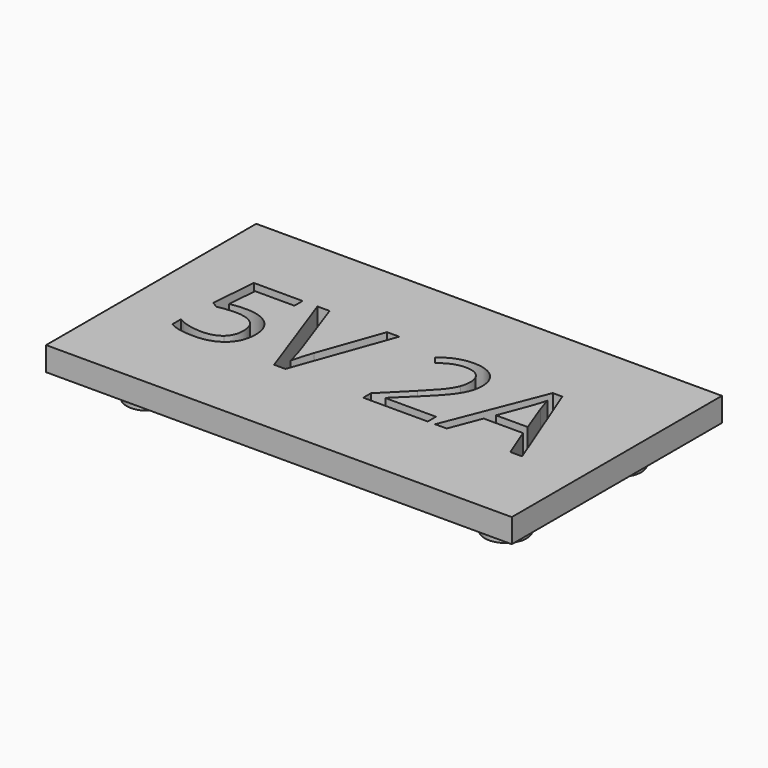
from build123d import *

# Parameters (mm, degrees)
F0_W     = 68
F0_H     = 34
F1_DEPTH = 2
F2_R     = 3.5
F3_DEPTH = 3
F4_D     = 2.4
F4_DEPTH = 3.001
F5_R     = 5
F6_W     = 78
F6_H     = 44
F7_DEPTH = 4


with BuildPart() as f1:
    # F0 (on Top) → F1 (new body)
    with BuildSketch(Plane.XY):
        Rectangle(F0_W, F0_H)
    extrude(amount=F1_DEPTH)

    # F2 (on face) → F3 (join)
    with BuildSketch(Plane.XY):
        with Locations((30, -12)):
            Circle(F2_R)
        with Locations((-30, -12)):
            Circle(F2_R)
        with Locations((30, 12)):
            Circle(F2_R)
        with Locations((-30, 12)):
            Circle(F2_R)
    extrude(amount=-F3_DEPTH)

    # F4 (through all, one way)
    with BuildSketch(Plane.XY):
        with Locations((-30, 12), (-30, -12), (30, 12), (30, -12)):
            Circle(F4_D / 2)
    extrude(amount=-F4_DEPTH, mode=Mode.SUBTRACT)

    # F5
    f5_edges = [f1.edges().sort_by_distance(p)[0] for p in [
        (-34, 17, 1),
        (34, 17, 1),
        (34, -17, 1),
        (-34, -17, 1),
    ]]
    fillet(f5_edges, radius=F5_R)

    # F6 (on face) → F7 (join)
    with BuildSketch(Plane.XY.offset(2)):
        Rectangle(F6_W, F6_H)
        with BuildLine():
            add(Edge.make_bspline(
                [(-27.6022215205, 2.0609542791), (-26.3102811263, 2.3200621019), (-25.0255381717, 2.3200621019)],
                knots=[0, 0, 0, 1, 1, 1], degree=2))
            add(Edge.make_bspline(
                [(-25.0255381717, 2.3200621019), (-22.4272625043, 2.3200621019), (-20.9373925233, 1.0317204275)],
                knots=[0, 0, 0, 1, 1, 1], degree=2))
            add(Edge.make_bspline(
                [(-20.9373925233, 1.0317204275), (-19.4475225423, -0.2566212469), (-19.4475225423, -2.4950249382)],
                knots=[0, 0, 0, 1, 1, 1], degree=2))
            add(Edge.make_bspline(
                [(-19.4475225423, -2.4950249382), (-19.4475225423, -5.0465172487), (-21.0723445143, -6.4986006722)],
                knots=[0, 0, 0, 1, 1, 1], degree=2))
            add(Edge.make_bspline(
                [(-21.0723445143, -6.4986006722), (-22.6971664864, -7.9506840957), (-25.5545499765, -7.9506840957)],
                knots=[0, 0, 0, 1, 1, 1], degree=2))
            add(Edge.make_bspline(
                [(-25.5545499765, -7.9506840957), (-28.3327616319, -7.9506840957), (-29.7938418549, -7.0618003148)],
                knots=[0, 0, 0, 1, 1, 1], degree=2))
            Line((-29.7938418549, -7.0618003148), (-29.7938418549, -5.2624404343))
            add(Edge.make_bspline(
                [(-29.7938418549, -5.2624404343), (-29.009320947, -5.7662612008), (-27.8397370247, -6.0541587817)],
                knots=[0, 0, 0, 1, 1, 1], degree=2))
            add(Edge.make_bspline(
                [(-27.8397370247, -6.0541587817), (-26.6701531024, -6.3420563626), (-25.532957658, -6.3420563626)],
                knots=[0, 0, 0, 1, 1, 1], degree=2))
            add(Edge.make_bspline(
                [(-25.532957658, -6.3420563626), (-23.5536617895, -6.3420563626), (-22.4578516223, -5.4081885846)],
                knots=[0, 0, 0, 1, 1, 1], degree=2))
            add(Edge.make_bspline(
                [(-22.4578516223, -5.4081885846), (-21.3620414551, -4.4743208067), (-21.3620414551, -2.7073494041)],
                knots=[0, 0, 0, 1, 1, 1], degree=2))
            add(Edge.make_bspline(
                [(-21.3620414551, -2.7073494041), (-21.3620414551, 0.7330266874), (-25.5761422951, 0.7330266874)],
                knots=[0, 0, 0, 1, 1, 1], degree=2))
            add(Edge.make_bspline(
                [(-25.5761422951, 0.7330266874), (-26.6449620641, 0.7330266874), (-28.4335257853, 0.4055431891)],
                knots=[0, 0, 0, 1, 1, 1], degree=2))
            Line((-28.4335257853, 0.4055431891), (-29.4015814009, 1.024522988))
            Line((-29.4015814009, 1.024522988), (-28.7826016021, 8.7185858368))
            Line((-28.7826016021, 8.7185858368), (-20.6063103053, 8.7185858368))
            Line((-20.6063103053, 8.7185858368), (-20.6063103053, 6.9983977911))
            Line((-20.6063103053, 6.9983977911), (-27.1847700282, 6.9983977911))
            Line((-27.1847700282, 6.9983977911), (-27.6022215205, 2.0609542791))
        make_face(mode=Mode.SUBTRACT)
        with BuildLine():
            Line((-10.2276025148, -1.8544528207), (-6.4705390845, 8.7185858368))
            Line((-6.4705390845, 8.7185858368), (-4.415670101, 8.7185858368))
            Line((-4.415670101, 8.7185858368), (-10.3391628274, -7.7239647508))
            Line((-10.3391628274, -7.7239647508), (-12.2284907019, -7.7239647508))
            Line((-12.2284907019, -7.7239647508), (-18.1231936703, 8.7185858368))
            Line((-18.1231936703, 8.7185858368), (-16.0971144449, 8.7185858368))
            Line((-16.0971144449, 8.7185858368), (-12.3184586959, -1.9192297764))
            add(Edge.make_bspline(
                [(-12.3184586959, -1.9192297764), (-11.6670904192, -3.7545768545), (-11.2856261245, -5.4855610595)],
                knots=[0, 0, 0, 1, 1, 1], degree=2))
            add(Edge.make_bspline(
                [(-11.2856261245, -5.4855610595), (-10.8789707916, -3.6646088605), (-10.2276025148, -1.8544528207)],
                knots=[0, 0, 0, 1, 1, 1], degree=2))
        make_face(mode=Mode.SUBTRACT)
        with BuildLine():
            Line((13.5023555886, -5.9929805458), (13.5023555886, -7.7239647508))
            Line((13.5023555886, -7.7239647508), (2.6954001466, -7.7239647508))
            Line((2.6954001466, -7.7239647508), (2.6954001466, -6.1153370176))
            Line((2.6954001466, -6.1153370176), (7.0246600189, -1.7644848267))
            add(Edge.make_bspline(
                [(7.0246600189, -1.7644848267), (9.0039558874, 0.2400020801), (9.6337318456, 1.0946980233)],
                knots=[0, 0, 0, 1, 1, 1], degree=2))
            add(Edge.make_bspline(
                [(9.6337318456, 1.0946980233), (10.2635078038, 1.9493939665), (10.5783957828, 2.7591059127)],
                knots=[0, 0, 0, 1, 1, 1], degree=2))
            add(Edge.make_bspline(
                [(10.5783957828, 2.7591059127), (10.8932837619, 3.568817859), (10.8932837619, 4.500886277)],
                knots=[0, 0, 0, 1, 1, 1], degree=2))
            add(Edge.make_bspline(
                [(10.8932837619, 4.500886277), (10.8932837619, 5.8180177095), (10.094367975, 6.5881437384)],
                knots=[0, 0, 0, 1, 1, 1], degree=2))
            add(Edge.make_bspline(
                [(10.094367975, 6.5881437384), (9.2954521881, 7.3582697672), (7.8775566023, 7.3582697672)],
                knots=[0, 0, 0, 1, 1, 1], degree=2))
            add(Edge.make_bspline(
                [(7.8775566023, 7.3582697672), (6.8555201902, 7.3582697672), (5.9378466511, 7.0199901097)],
                knots=[0, 0, 0, 1, 1, 1], degree=2))
            add(Edge.make_bspline(
                [(5.9378466511, 7.0199901097), (5.0201731121, 6.6817104521), (3.8973725467, 5.7928266712)],
                knots=[0, 0, 0, 1, 1, 1], degree=2))
            Line((3.8973725467, 5.7928266712), (2.9077246125, 7.0631747468))
            add(Edge.make_bspline(
                [(2.9077246125, 7.0631747468), (5.1785167816, 8.9525026213), (7.8559642837, 8.9525026213)],
                knots=[0, 0, 0, 1, 1, 1], degree=2))
            add(Edge.make_bspline(
                [(7.8559642837, 8.9525026213), (10.1735398097, 8.9525026213), (11.4888718823, 7.76672446)],
                knots=[0, 0, 0, 1, 1, 1], degree=2))
            add(Edge.make_bspline(
                [(11.4888718823, 7.76672446), (12.804203955, 6.5809462988), (12.804203955, 4.5800581118)],
                knots=[0, 0, 0, 1, 1, 1], degree=2))
            add(Edge.make_bspline(
                [(12.804203955, 4.5800581118), (12.804203955, 3.0146150158), (11.9261163333, 1.4851591174)],
                knots=[0, 0, 0, 1, 1, 1], degree=2))
            add(Edge.make_bspline(
                [(11.9261163333, 1.4851591174), (11.0480287116, -0.044296781), (8.6440839113, -2.3834646256)],
                knots=[0, 0, 0, 1, 1, 1], degree=2))
            Line((8.6440839113, -2.3834646256), (5.0453641504, -5.9030125517))
            Line((5.0453641504, -5.9030125517), (5.0453641504, -5.9929805458))
            Line((5.0453641504, -5.9929805458), (13.5023555886, -5.9929805458))
        make_face(mode=Mode.SUBTRACT)
        Polygon((29.3115314982, -7.7239647508), (27.3322356297, -7.7239647508), (25.2845640858, -2.4950249382), (18.6953082036, -2.4950249382), (16.6728276979, -7.7239647508), (14.7367164666, -7.7239647508), (21.2360043548, 8.7869615123), (22.8446320879, 8.7869615123), align=None, mode=Mode.SUBTRACT)
        with BuildLine():
            Line((19.3718675186, -0.7748368925), (24.6907753252, -0.7748368925))
            Line((24.6907753252, -0.7748368925), (22.7762564124, 4.320950289))
            add(Edge.make_bspline(
                [(22.7762564124, 4.320950289), (22.405588277, 5.2890059047), (22.0133278231, 6.6925066114)],
                knots=[0, 0, 0, 1, 1, 1], degree=2))
            add(Edge.make_bspline(
                [(22.0133278231, 6.6925066114), (21.7650161596, 5.6128906831), (21.3043800302, 4.320950289)],
                knots=[0, 0, 0, 1, 1, 1], degree=2))
            Line((21.3043800302, 4.320950289), (19.3718675186, -0.7748368925))
        make_face()
    extrude(amount=F7_DEPTH)


solid = f1.part
